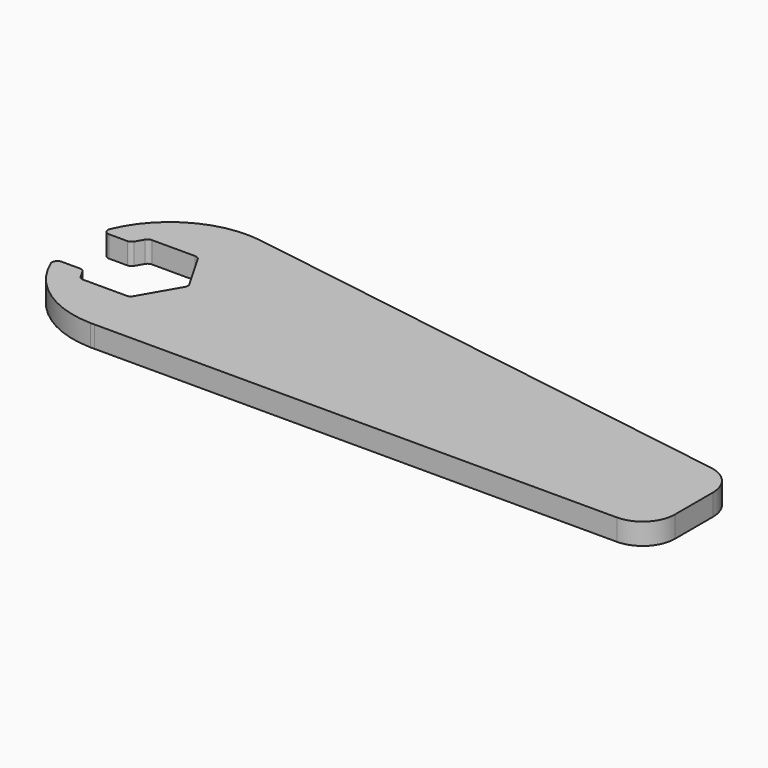
from build123d import *

# Parameters (mm, degrees)
F1_DEPTH = 2


with BuildPart() as f1:
    # F0 (on Top) → F1 (new body)
    with BuildSketch(Plane.XY):
        with BuildLine():
            ThreePointArc((-79.421869, 4.254598), (-79.604881, 4.071586), (-79.854881, 4.004598))
            Line((-79.854881, 4.004598), (-83.896333, 4.004598))
            ThreePointArc((-83.896333, 4.004598), (-84.146333, 4.071586), (-84.329346, 4.254598))
            Line((-84.329346, 4.254598), (-84.75321, 4.988753))
            ThreePointArc((-84.75321, 4.988753), (-84.936223, 5.171765), (-85.186223, 5.238753))
            Line((-85.186223, 5.238753), (-86.891341, 5.238753))
            ThreePointArc((-86.891341, 5.238753), (-87.307306, 5.016192), (-87.352962, 4.546644))
            ThreePointArc((-87.352962, 4.546644), (-84.114792, 0.569223), (-79.229755, -0.99348))
            Line((-79.229755, -0.99348), (-78.8578, -0.99348))
            Line((-78.8578, -0.99348), (-30.152972, -0.99348))
            ThreePointArc((-30.152972, -0.99348), (-28.031652, -0.1148), (-27.152972, 2.00652))
            Line((-27.152972, 2.00652), (-27.152972, 6.438837))
            ThreePointArc((-27.152972, 6.438837), (-27.873797, 8.38957), (-29.689879, 9.402879))
            Line((-29.689879, 9.402879), (-77.654499, 16.896724))
            ThreePointArc((-77.654499, 16.896724), (-83.443076, 15.856106), (-87.352962, 11.462553))
            ThreePointArc((-87.352962, 11.462553), (-87.307306, 10.993004), (-86.891341, 10.770444))
            Line((-86.891341, 10.770444), (-85.186223, 10.770444))
            ThreePointArc((-85.186223, 10.770444), (-84.936223, 10.837431), (-84.75321, 11.020444))
            Line((-84.75321, 11.020444), (-84.329346, 11.754598))
            ThreePointArc((-84.329346, 11.754598), (-84.146333, 11.937611), (-83.896333, 12.004598))
            Line((-83.896333, 12.004598), (-79.854881, 12.004598))
            ThreePointArc((-79.854881, 12.004598), (-79.604881, 11.937611), (-79.421869, 11.754598))
            Line((-79.421869, 11.754598), (-77.401143, 8.254598))
            ThreePointArc((-77.401143, 8.254598), (-77.334155, 8.004598), (-77.401143, 7.754598))
            Line((-77.401143, 7.754598), (-79.421869, 4.254598))
        make_face()
        with BuildLine():
            Line((-78.8578, -0.99348), (-79.229755, -0.99348))
            ThreePointArc((-79.229755, -0.99348), (-79.043777, -0.995402), (-78.8578, -0.99348))
        make_face()
    extrude(amount=F1_DEPTH)


solid = f1.part
